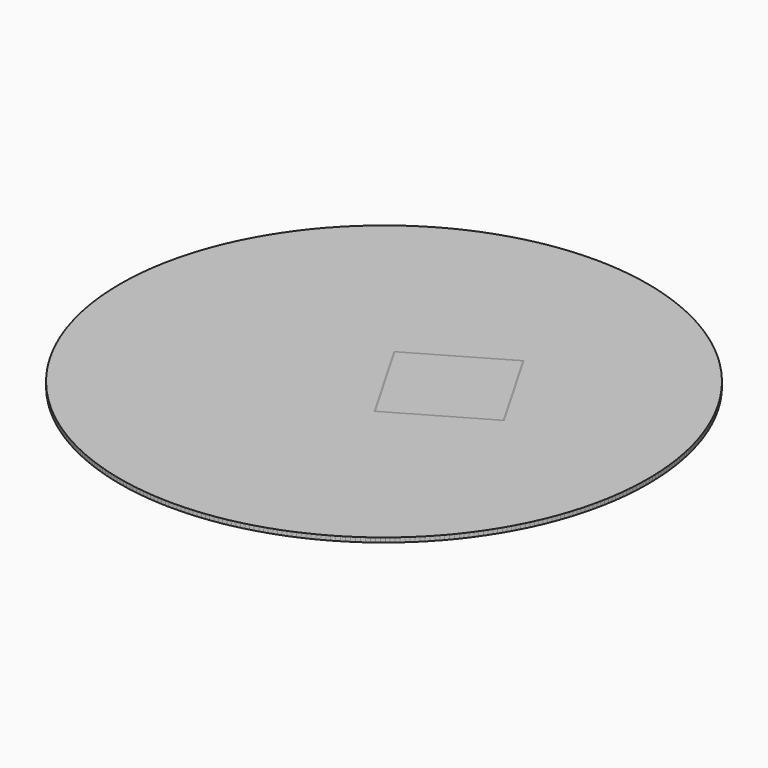
from build123d import *

# Parameters (mm, degrees)
F0_R     = 74.423009
F1_DEPTH = 1.27
F2_W     = 28.99691
F2_H     = 28.996911
F2_W_2   = 28.48891
F2_H_2   = 28.488911
F3_DEPTH = 0.254
F4_COUNT = 6


with BuildPart() as f1:
    # F0 (on Top) → F1 (new body)
    with BuildSketch(Plane.XY):
        Circle(F0_R)
    extrude(amount=F1_DEPTH)

    # F2 (on face) → F3 (cut)
    with BuildSketch(Plane.XY.offset(1.27)):
        with Locations((0, 14.498455)):
            Rectangle(F2_W, F2_H)
        with Locations((0, 14.498456)):
            Rectangle(F2_W_2, F2_H_2, mode=Mode.SUBTRACT)
    extrude(amount=-F3_DEPTH, mode=Mode.SUBTRACT)


with BuildPart() as f4_1:
    # F4: instance of F1
    add(f1.part.rotate(Axis((0, 0, 1.27), (0, 0, 1)), 1 * 360 / F4_COUNT))


with BuildPart() as f4_2:
    # F4: instance of F1
    add(f1.part.rotate(Axis((0, 0, 1.27), (0, 0, 1)), 2 * 360 / F4_COUNT))


with BuildPart() as f4_3:
    # F4: instance of F1
    add(f1.part.rotate(Axis((0, 0, 1.27), (0, 0, 1)), 3 * 360 / F4_COUNT))


with BuildPart() as f4_4:
    # F4: instance of F1
    add(f1.part.rotate(Axis((0, 0, 1.27), (0, 0, 1)), 4 * 360 / F4_COUNT))


with BuildPart() as f4_5:
    # F4: instance of F1
    add(f1.part.rotate(Axis((0, 0, 1.27), (0, 0, 1)), 5 * 360 / F4_COUNT))


solid = Compound([f1.part, f4_1.part, f4_2.part, f4_3.part, f4_4.part, f4_5.part])
